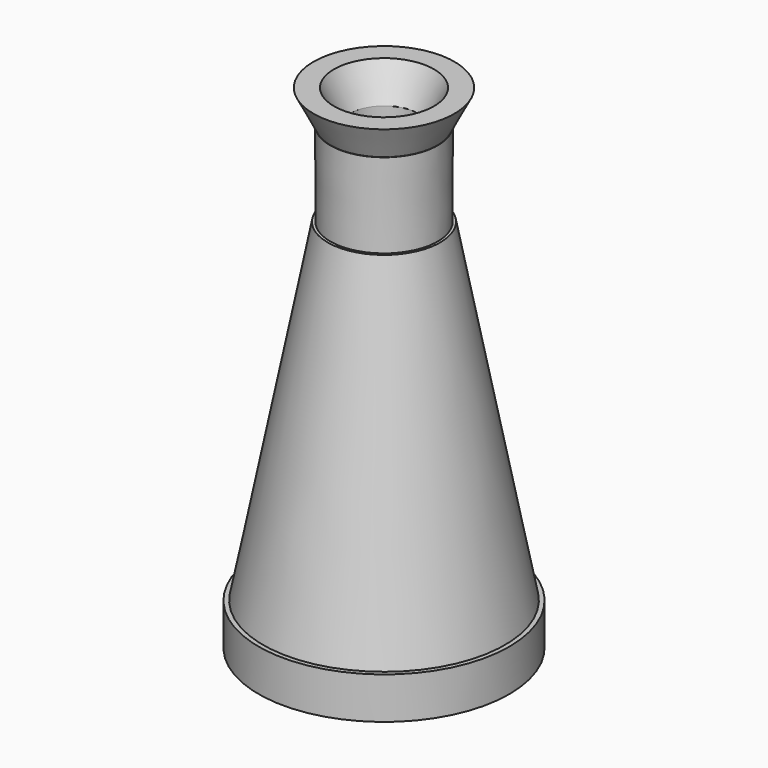
from build123d import *

# Parameters (mm, degrees)
F0_R     = 15
F1_DEPTH = 5


with BuildPart() as f1:
    # F0 (on Top) → F1 (new body)
    with BuildSketch(Plane.XY):
        Circle(F0_R)
    extrude(amount=F1_DEPTH)

    # F2 (on Front) → F3 (revolve)
    with BuildSketch(Plane.XZ):
        Polygon((-14.491172, 4.864085), (0, 4.864085), (0, 44.864085), (-6.733272, 44.864085), align=None)
    revolve(axis=Axis((0, 0, 24.864085), (0, 0, 1)))

    # F4 (on Front) → F5 (revolve)
    with BuildSketch(Plane.XZ):
        Polygon((-6.417496, 44.807569), (0, 44.983736), (0, 54.983736), (-6.434252, 54.983736), align=None)
    revolve(axis=Axis((0, 0, 49.983736), (0, 0, 1)))

    # F6 (on Front) → F7 (revolve)
    with BuildSketch(Plane.XZ):
        Polygon((-8.426686, 58.967727), (-6.387146, 54.967727), (0, 54.967727), (0, 58.967727), align=None)
    revolve(axis=Axis((0, 0, 56.967727), (0, 0, -1)))

    # F8 (on Front) → F9 (revolve, cut)
    with BuildSketch(Plane.XZ):
        Polygon((-4.05009, 44.66689), (-11.844673, 5.362289), (0, 5.528131), (0, 59.371449), (-6.179371, 59.371449), (-4.05009, 54.949105), align=None)
    revolve(axis=Axis((0, 0, 32.44979), (0, 0, -1)), mode=Mode.SUBTRACT)


solid = f1.part
